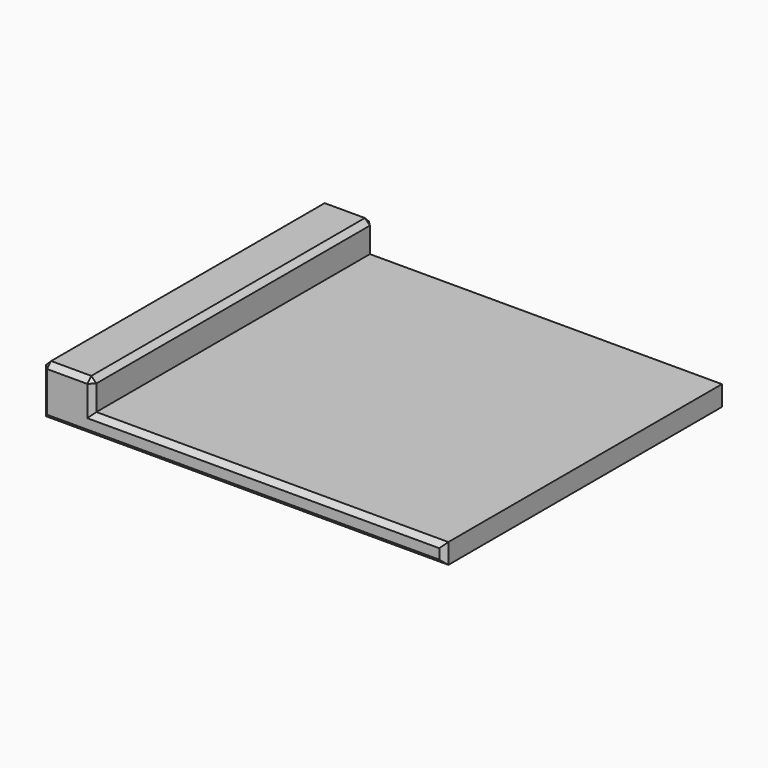
from build123d import *

# Parameters (mm, degrees)
F0_W     = 40
F0_H     = 35
F1_DEPTH = 5
F2_W     = 35
F2_H     = 35
F3_DEPTH = 3
F4_SIZE  = 0.5


with BuildPart() as f1:
    # F0 (on Top) → F1 (new body)
    with BuildSketch(Plane.XY):
        with Locations((20, 17.5)):
            Rectangle(F0_W, F0_H)
    extrude(amount=F1_DEPTH)

    # F2 (on face) → F3 (cut)
    with BuildSketch(Plane.XY.offset(5)):
        with Locations((22.5, 17.5)):
            Rectangle(F2_W, F2_H)
    extrude(amount=-F3_DEPTH, mode=Mode.SUBTRACT)

    # F4
    f4_edges = [f1.edges().sort_by_distance(p)[0] for p in [
        (2.5, 35, 5),
        (5, 17.5, 5),
        (2.5, 0, 5),
        (0, 17.5, 5),
        (20, 0, 0),
        (40, 0, 1),
        (22.5, 0, 2),
        (5, 0, 3.5),
        (0, 0, 2.5),
        (20, 35, 0),
        (0, 35, 2.5),
        (5, 35, 3.5),
        (22.5, 35, 2),
        (40, 35, 1),
    ]]
    chamfer(f4_edges, length=F4_SIZE)


solid = f1.part
